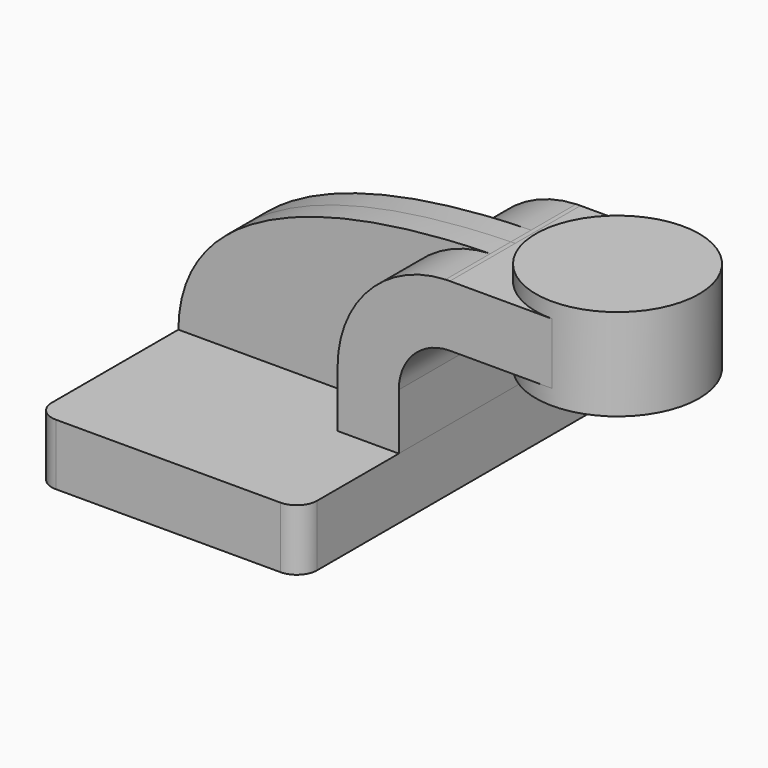
from build123d import *

# Parameters (mm, degrees)
F1_DEPTH = 63.5
F0_W     = 25.4
F0_H     = 19.05
F2_DEPTH = 25.4
F3_DEPTH = 7.9375
F5_R     = 6.35


with BuildPart() as f1:
    # F0 (on Front) → F1 (new body, symmetric)
    with BuildSketch(Plane.XZ):
        Polygon((-41.275, -9.525), (41.275, -9.525), (41.275, 9.525), (22.225, 9.525), (-41.275, 9.525), align=None)
    extrude(amount=F1_DEPTH, both=True)

    # F5
    f5_edges = [f1.edges().sort_by_distance(p)[0] for p in [
        (-41.275, -63.5, 0),
        (41.275, -63.5, 0),
        (41.275, 63.5, 0),
        (-41.275, 63.5, 0),
    ]]
    fillet(f5_edges, radius=F5_R)


with BuildPart() as f2:
    # F0 (on Front) → F2 (new body, symmetric)
    with BuildSketch(Plane.XZ):
        with BuildLine():
            Line((22.225, 9.525), (41.275, 9.525))
            Line((41.275, 9.525), (41.275, 27.0002))
            ThreePointArc((41.275, 27.0002), (45.9246798487, 38.2255201513), (57.15, 42.8752))
            Line((57.15, 42.8752), (63.585810169, 42.8752))
            Line((63.585810169, 42.8752), (63.585810169, 61.9252))
            Line((63.585810169, 61.9252), (57.15, 61.9252))
            add(Edge.make_bspline(
                [(55.7865879403, 61.8985772195), (56.240017403, 61.9084206503), (56.6944921809, 61.9172942833), (57.15, 61.9252)],
                knots=[110.6158014639, 110.6158014639, 110.6158014639, 110.6158014639, 111.5045361635, 111.5045361635, 111.5045361635, 111.5045361635], degree=3))
            ThreePointArc((55.7865879403, 61.8985772195), (31.9768715573, 51.2090667518), (22.225, 27.0002))
            Line((22.225, 27.0002), (22.225, 9.525))
        make_face()
        with Locations((76.285810169, 52.4002)):
            Rectangle(F0_W, F0_H)
    extrude(amount=F2_DEPTH, both=True)

    # F0 (on Front) → F4 (revolve)
    with BuildSketch(Plane.XZ):
        Polygon((88.985810169, 61.9252), (88.985810169, 42.8752), (88.985810169, 38.1), (114.385810169, 38.1), (114.385810169, 66.675), (88.985810169, 66.675), align=None)
    revolve(axis=Axis((88.985810169, 0, 52.3875), (0, 0, 1)))


with BuildPart() as f3:
    # F0 (on Front) → F3 (new body, symmetric)
    with BuildSketch(Plane.XZ):
        with BuildLine():
            add(Edge.make_bspline(
                [(-41.275, 9.525), (-40.8916613319, 44.4247603482), (-0.6492229388, 60.6734208425), (55.7865879403, 61.8985772195)],
                knots=[0, 0, 0, 0, 110.6158014639, 110.6158014639, 110.6158014639, 110.6158014639], degree=3))
            Line((-41.275, 9.525), (22.225, 9.525))
            Line((22.225, 9.525), (22.225, 27.0002))
            ThreePointArc((22.225, 27.0002), (31.9768715573, 51.2090667518), (55.7865879403, 61.8985772195))
        make_face()
    extrude(amount=F3_DEPTH, both=True)


solid = Compound([f1.part, f2.part, f3.part])
